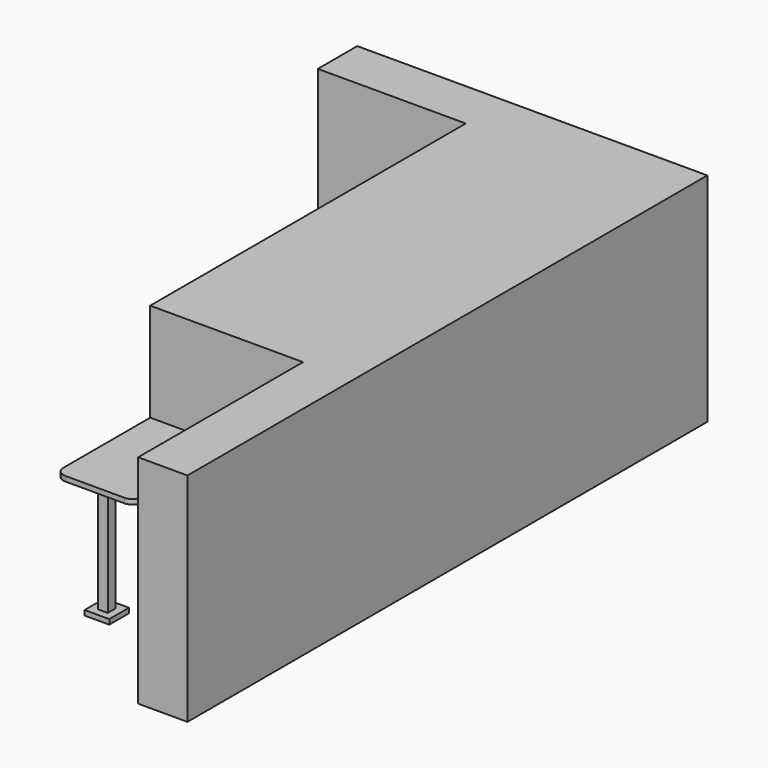
from build123d import *

# Parameters (mm, degrees)
F1_DEPTH  = 55.88
F2_W      = 39.37
F2_H      = 1.27
F3_DEPTH  = 7.62
F4_W      = 20.32
F4_H      = 1.27
F5_DEPTH  = 22.86
F6_R      = 2.54
F7_W      = 2.54
F7_H      = 2.54
F8_DEPTH  = 27.94
F9_W      = 6.35
F9_H      = 6.35
F9_W_2    = 2.54
F9_H_2    = 2.54
F10_DEPTH = 1.27


with BuildPart() as f1:
    # F0 (on Top) → F1 (new body)
    with BuildSketch(Plane.XY):
        Polygon((0, 101.6), (0, 0), (39.37, 0), (39.37, -53.086), (52.07, -53.086), (52.07, 114.3), (-38.1, 114.3), (-38.1, 101.6), align=None)
    extrude(amount=F1_DEPTH)

    # F2 (on face) → F3 (join)
    with BuildSketch(Plane.XZ):
        with Locations((19.685, 29.845)):
            Rectangle(F2_W, F2_H)
    extrude(amount=F3_DEPTH)

    # F4 (on face) → F5 (join)
    with BuildSketch(Plane.XZ.offset(7.62)):
        with Locations((10.16, 29.845)):
            Rectangle(F4_W, F4_H)
    extrude(amount=F5_DEPTH)

    # F6
    f6_edges = [f1.edges().sort_by_distance(p)[0] for p in [
        (0, -30.48, 29.845),
        (20.32, -30.48, 29.845),
    ]]
    fillet(f6_edges, radius=F6_R)

    # F7 (on face) → F8 (join)
    with BuildSketch(Plane(origin=(0, 0, 29.21), x_dir=(1, 0, 0), z_dir=(0, 0, -1))):
        with Locations((10.16, 26.67)):
            Rectangle(F7_W, F7_H)
    extrude(amount=F8_DEPTH)


with BuildPart() as f10:
    # F9 (on face) → F10 (new body)
    with BuildSketch(Plane(origin=(0, 0, 1.27), x_dir=(1, 0, 0), z_dir=(0, 0, -1))):
        with Locations((10.16, 26.67)):
            Rectangle(F9_W, F9_H)
        with Locations((10.16, 26.67)):
            Rectangle(F9_W_2, F9_H_2, mode=Mode.SUBTRACT)
    extrude(amount=F10_DEPTH)


solid = Compound([f1.part, f10.part])
